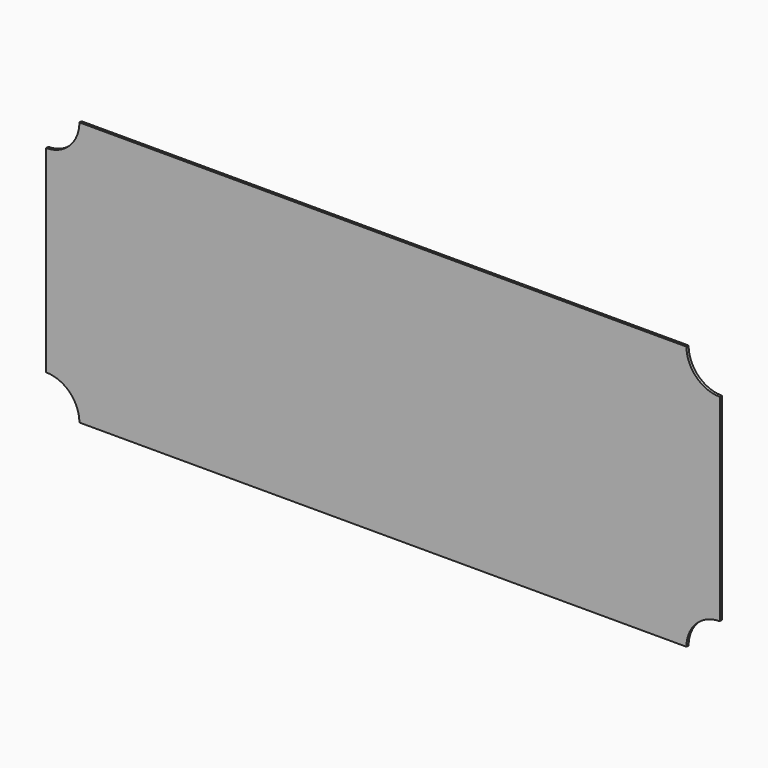
from build123d import *

# Parameters (mm, degrees)
F1_DEPTH = 2


with BuildPart() as f1:
    # F0 (on Front) → F1 (new body)
    with BuildSketch(Plane.XZ):
        with BuildLine():
            Line((-300.879598, 134.094029), (-300.879598, 129.322585))
            Line((-300.879598, 129.322585), (-300.879598, -15.448859))
            ThreePointArc((-300.879598, -15.448859), (-295.773951, -15.97089), (-290.879598, -17.515377))
            ThreePointArc((-290.879598, -17.515377), (-279.799209, -26.8175), (-275.651042, -40.677415))
            Line((-275.651042, -40.677415), (183.891847, -40.677415))
            ThreePointArc((183.891847, -40.677415), (188.040014, -26.8175), (199.120402, -17.515377))
            ThreePointArc((199.120402, -17.515377), (204.014756, -15.97089), (209.120402, -15.448859))
            Line((209.120402, -15.448859), (209.120402, 134.094029))
            ThreePointArc((209.120402, 134.094029), (191.281119, 141.483302), (183.891847, 159.322585))
            Line((183.891847, 159.322585), (-275.651042, 159.322585))
            ThreePointArc((-275.651042, 159.322585), (-283.040315, 141.483302), (-300.879598, 134.094029))
        make_face()
    extrude(amount=F1_DEPTH)


solid = f1.part
